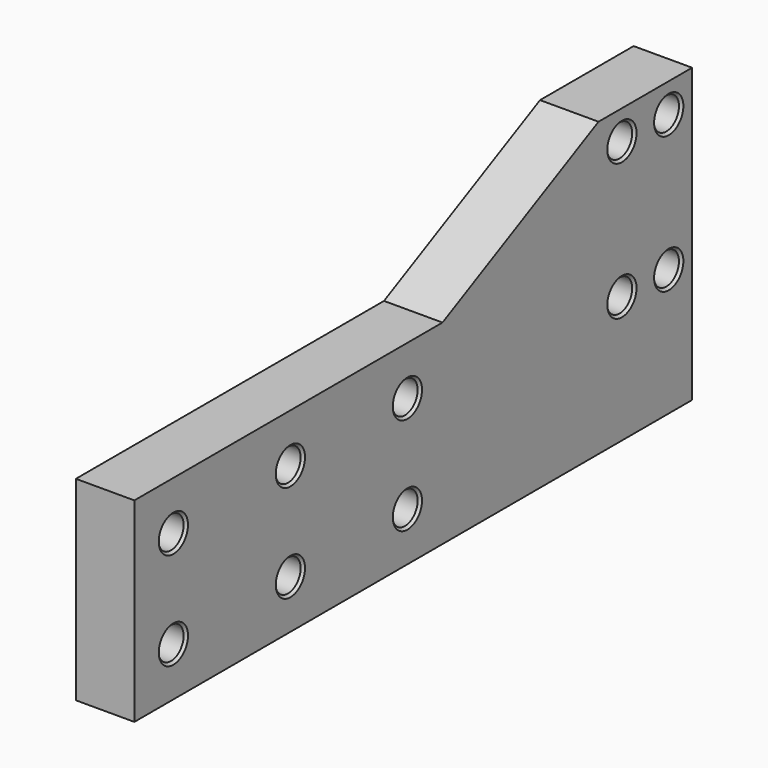
from build123d import *

# Parameters (mm, degrees)
F0_R     = 3.25
F1_DEPTH = 12
F2_SIZE  = 3.25
F3_SIZE  = 0.5


with BuildPart() as f1:
    # F0 (on Right) → F1 (new body)
    with BuildSketch(Plane.YZ):
        Polygon((7.5, 20), (-71.5, 20), (-71.5, -20), (71.5, -20), (71.5, 20), (71.5, 40), (47.5, 40), align=None)
        with Locations((-61.5, -10)):
            Circle(F0_R, mode=Mode.SUBTRACT)
        with Locations((-31.5, -10)):
            Circle(F0_R, mode=Mode.SUBTRACT)
        with Locations((-1.5, -10)):
            Circle(F0_R, mode=Mode.SUBTRACT)
        with Locations((53.5, 5.999998)):
            Circle(F0_R, mode=Mode.SUBTRACT)
        with Locations((65.5, 5.999998)):
            Circle(F0_R, mode=Mode.SUBTRACT)
        with Locations((-61.5, 10)):
            Circle(F0_R, mode=Mode.SUBTRACT)
        with Locations((-31.5, 10)):
            Circle(F0_R, mode=Mode.SUBTRACT)
        with Locations((-1.5, 10)):
            Circle(F0_R, mode=Mode.SUBTRACT)
        with Locations((53.5, 33.999998)):
            Circle(F0_R, mode=Mode.SUBTRACT)
        with Locations((65.5, 33.999998)):
            Circle(F0_R, mode=Mode.SUBTRACT)
    extrude(amount=F1_DEPTH)

    # F2
    f2_edges = [f1.edges().sort_by_distance(p)[0] for p in [
        (0, -4.75, 10),
        (0, -4.75, -10),
        (0, -34.75, -10),
        (0, -34.75, 10),
        (0, -64.75, -10),
        (0, -64.75, 10),
    ]]
    chamfer(f2_edges, length=F2_SIZE)

    # F3
    f3_edges = [f1.edges().sort_by_distance(p)[0] for p in [
        (6, 68.75, 33.999998),
        (0, 62.25, 33.999998),
        (12, 62.25, 33.999998),
        (6, 56.75, 33.999998),
        (0, 50.25, 33.999998),
        (12, 50.25, 33.999998),
        (6, 56.75, 5.999998),
        (0, 50.25, 5.999998),
        (12, 50.25, 5.999998),
        (6, 68.75, 5.999998),
        (0, 62.25, 5.999998),
        (12, 62.25, 5.999998),
        (12, -64.75, 10),
        (12, -34.75, 10),
        (12, -4.75, 10),
        (12, -4.75, -10),
        (12, -34.75, -10),
        (12, -64.75, -10),
    ]]
    chamfer(f3_edges, length=F3_SIZE)


solid = f1.part
